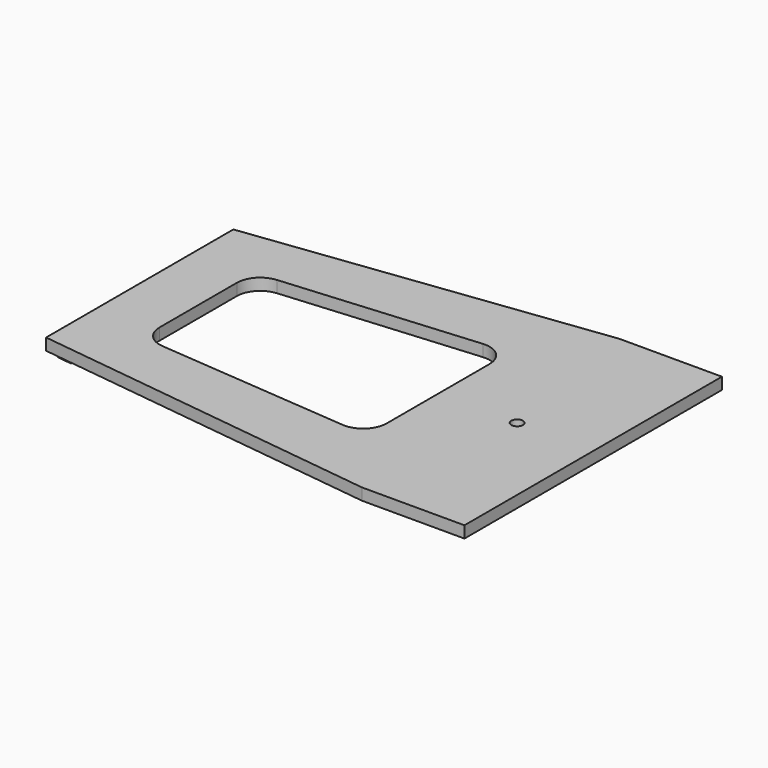
from build123d import *

# Parameters (mm, degrees)
F0_R     = 2
F1_DEPTH = 4
F3_DEPTH = 4


with BuildPart() as f1:
    # F0 (on Top) → F1 (new body)
    with BuildSketch(Plane.XY):
        Polygon((120, 55), (0, 40), (0, -40), (120, -55), (155, -55), (155, 55), align=None)
        with BuildLine():
            Line((20, -16.5), (20, 16.5))
            ThreePointArc((20, 16.5), (22.112942, 21.916876), (27.335636, 24.472366))
            Line((27.335636, 24.472366), (93.335636, 29.972366))
            ThreePointArc((93.335636, 29.972366), (99.416876, 27.887058), (102, 22))
            Line((102, 22), (102, -22))
            ThreePointArc((102, -22), (99.416876, -27.887058), (93.335636, -29.972366))
            Line((93.335636, -29.972366), (27.335636, -24.472366))
            ThreePointArc((27.335636, -24.472366), (22.112942, -21.916876), (20, -16.5))
        make_face(mode=Mode.SUBTRACT)
        with Locations((129, 0)):
            Circle(F0_R, mode=Mode.SUBTRACT)
    extrude(amount=F1_DEPTH)

    # F2 (on face) → F3 (join)
    with BuildSketch(Plane.XY):
        Polygon((0, 34.961089), (0, -34.961089), (5, -35.586089), (5, 35.586089), align=None)
    extrude(amount=-F3_DEPTH)


solid = f1.part
